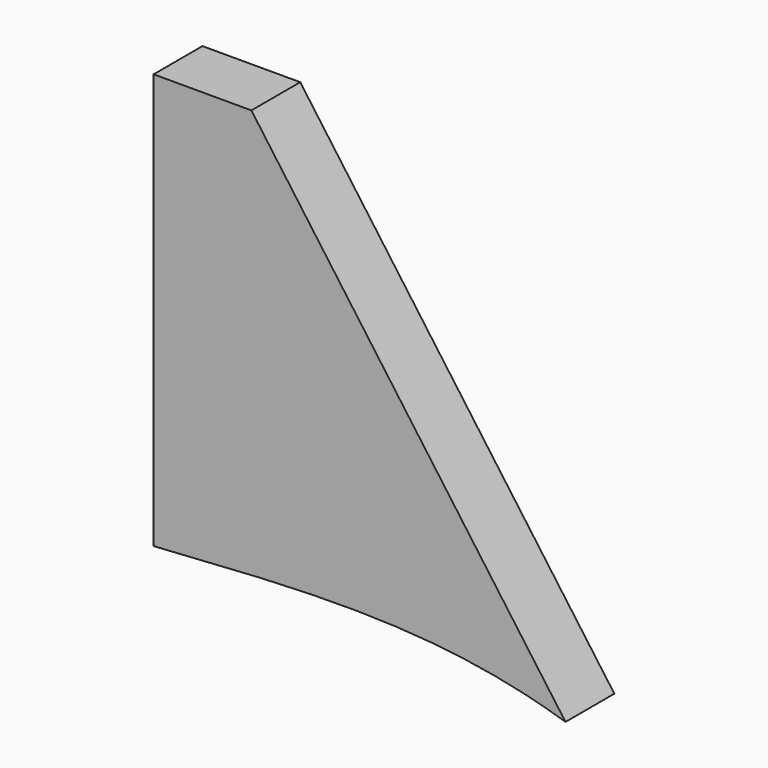
from build123d import *

# Parameters (mm, degrees)
F1_DEPTH = 6.35


with BuildPart() as f1:
    # F0 (on Front) → F1 (new body)
    with BuildSketch(Plane.XZ):
        with BuildLine():
            Line((-43.7217544995, 48.8189097859), (-53.8817544995, 48.8189097859))
            Line((-53.8817544995, 48.8189097859), (-53.8817544995, 5.6389097859))
            add(Edge.make_bspline(
                [(-53.8817544995, 5.6389097859), (-39.3898588641, 6.5959759387), (-25.0768126259, 7.9129616704), (-11.0655630203, 3.4741464932)],
                knots=[0, 0, 0, 0, 0.4680294603, 0.4680294603, 0.4680294603, 0.4680294603], degree=3))
            Line((-11.0655630203, 3.4741464932), (-43.7217544995, 48.8189097859))
        make_face()
    extrude(amount=F1_DEPTH)


solid = f1.part
